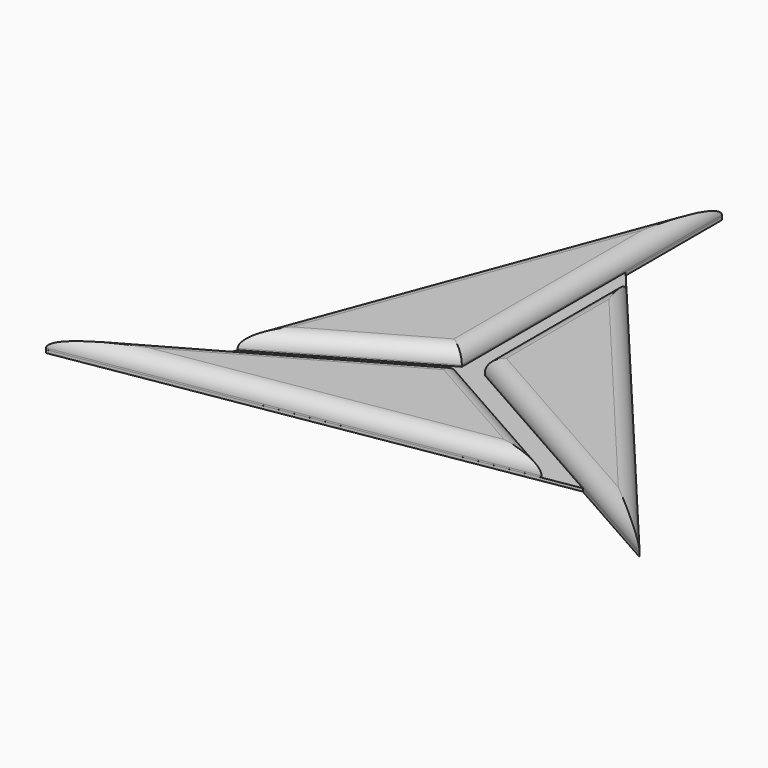
from build123d import *

# Parameters (mm, degrees)
F1_DEPTH = 1.3
F2_R     = 1
F4_DEPTH = 0.2


with BuildPart() as f1:
    # F0 (on Top) → F1 (new body)
    with BuildSketch(Plane.XY):
        Polygon((-0.740023, 22.543637), (-11.183773, -5.366363), (-0.740023, 0.543637), align=None)
        Polygon((19.958762, -10.291363), (0.811889, 12.543637), (0.811889, 0.543637), align=None)
        Polygon((-19.11781, -11.650001), (10.474633, -6.721784), (0.029064, -0.815001), align=None)
    extrude(amount=F1_DEPTH)

    # F2
    f2_edges = [f1.edges().sort_by_distance(p)[0] for p in [
        (-5.961898, 8.588637, 1.3),
        (-5.961898, -2.411363, 1.3),
        (-0.740023, 11.543637, 1.3),
        (10.385326, 1.126137, 1.3),
        (0.811889, 6.543637, 1.3),
        (10.385326, -4.873863, 1.3),
        (-4.321588, -9.185892, 1.3),
        (5.251849, -3.768392, 1.3),
        (-9.544373, -6.232501, 1.3),
    ]]
    fillet(f2_edges, radius=F2_R)


with BuildPart() as f4:
    # F3 (on face) → F4 (new body)
    with BuildSketch(Plane(origin=(0, 0, 0), x_dir=(1, 0, 0), z_dir=(0, 0, -1))):
        Polygon((-0.739928, -14.394369), (19.958762, 10.291363), (12.930588, 6.314199), (-19.117869, 11.650017), (-12.039473, 7.646511), (-0.739928, -22.543753), align=None)
    extrude(amount=-F4_DEPTH)


solid = Compound([f1.part, f4.part])
